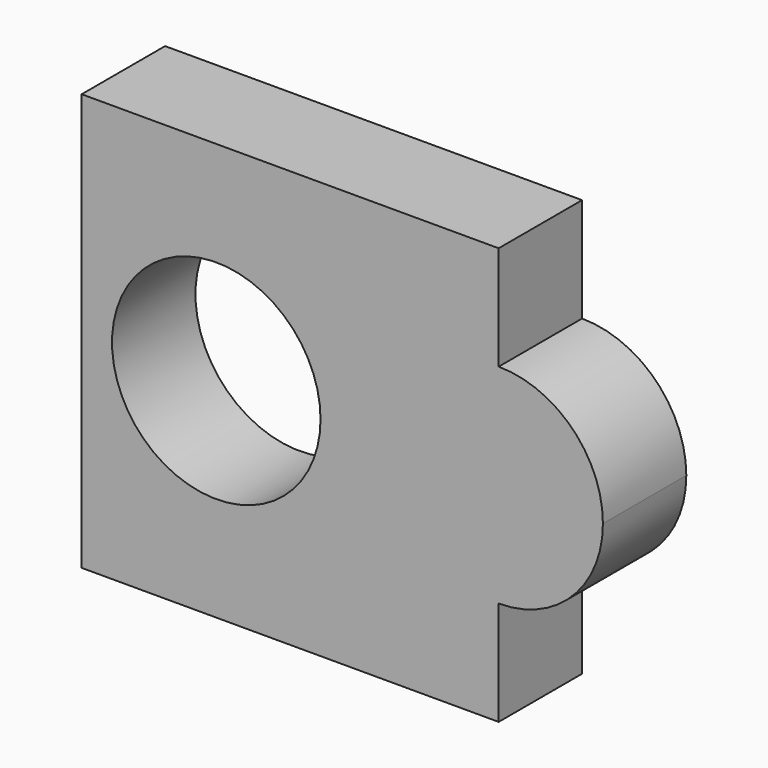
from build123d import *

# Parameters (mm, degrees)
F0_R     = 25.4
F1_DEPTH = 25.4


with BuildPart() as f1:
    # F0 (on Front) → F1 (new body)
    with BuildSketch(Plane.XZ):
        with BuildLine():
            Line((-50.8, -50.8), (50.8, -50.8))
            Line((50.8, -50.8), (50.8, -25.4))
            ThreePointArc((50.8, -25.4), (25.4, 0), (50.8, 25.4))
            Line((50.8, 25.4), (50.8, 50.8))
            Line((50.8, 50.8), (-50.8, 50.8))
            Line((-50.8, 50.8), (-50.8, -50.8))
        make_face()
        with Locations((-18.0044639856, 0)):
            Circle(F0_R, mode=Mode.SUBTRACT)
        with BuildLine():
            ThreePointArc((50.8, 25.4), (25.4, 0), (50.8, -25.4))
            Line((50.8, -25.4), (50.8, 25.4))
        make_face()
        with BuildLine():
            Line((50.8, 25.4), (50.8, -25.4))
            ThreePointArc((50.8, -25.4), (68.7605122421, -17.9605122421), (76.2, 0))
            ThreePointArc((76.2, 0), (68.7605122421, 17.9605122421), (50.8, 25.4))
        make_face()
    extrude(amount=F1_DEPTH)


solid = f1.part
